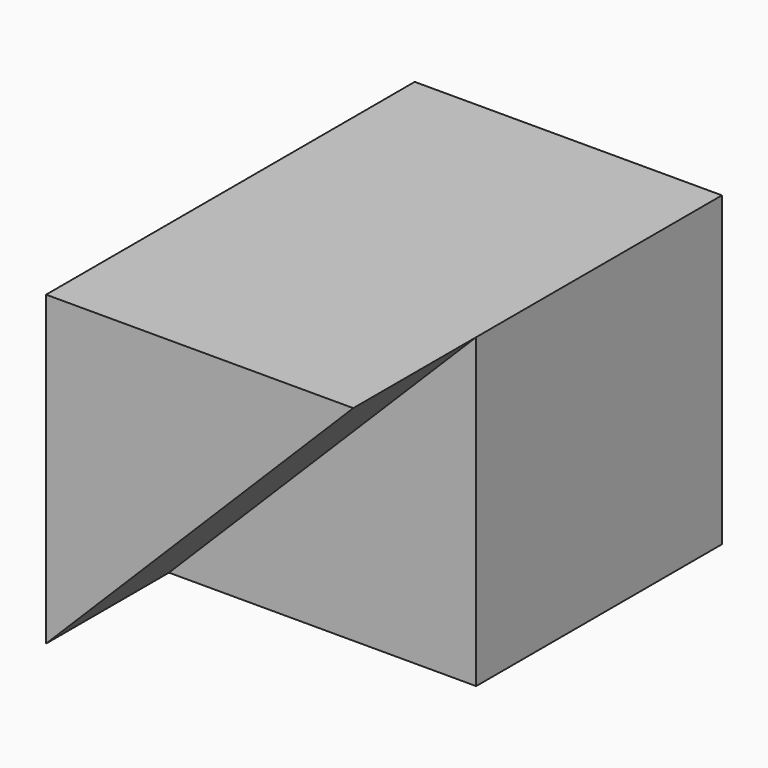
from build123d import *

# Parameters (mm, degrees)
F0_W     = 50.8
F0_H     = 50.8
F1_DEPTH = 50.8
F3_DEPTH = 25.4


with BuildPart() as f1:
    # F0 (on Front) → F1 (new body)
    with BuildSketch(Plane.XZ):
        with Locations((25.4, 25.4)):
            Rectangle(F0_W, F0_H)
    extrude(amount=F1_DEPTH)

    # F2 (on face) → F3 (join)
    with BuildSketch(Plane.XZ.offset(50.8)):
        Polygon((0, 0), (50.8, 50.8), (0, 50.8), align=None)
    extrude(amount=F3_DEPTH)


solid = f1.part
